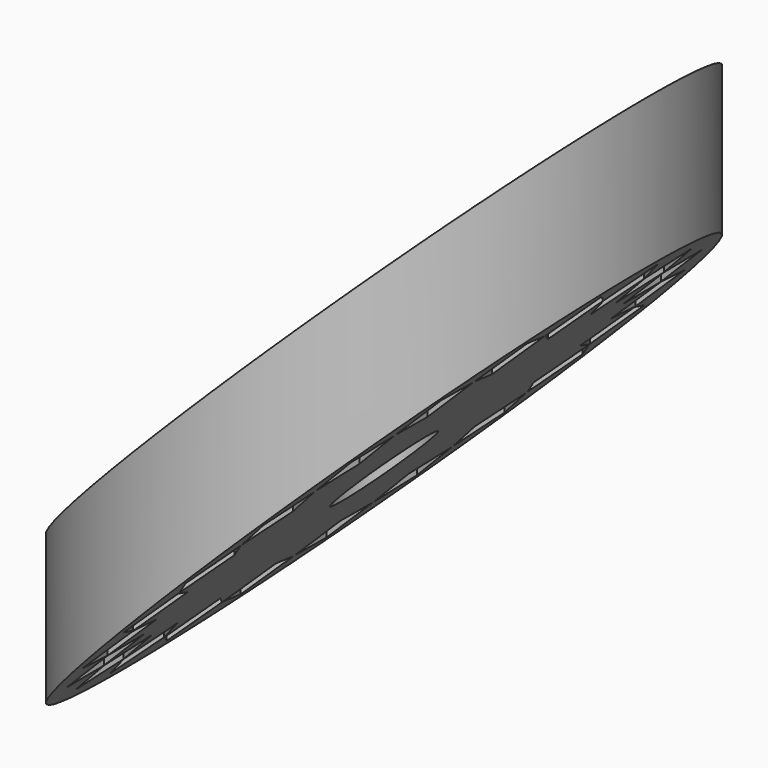
from build123d import *

# Parameters (mm, degrees)
F0_R          = 25
F1_DEPTH      = 140
F1_DEPTH_BACK = 140
F3_DEPTH      = 70
F3_DEPTH_BACK = 70
F4_R          = 4
F5_DEPTH      = 100


with BuildPart() as f1:
    # F0 (on Top) → F1 (new body, two sides)
    with BuildSketch(Plane.XY) as f1_sk:
        Circle(F0_R)
        Polygon((-17.759334, -15.390129), (-17.467051, -11.30056), (-13.377482, -11.592843), (-13.669765, -15.682412), align=None, mode=Mode.SUBTRACT)
        Polygon((-4.986074, -16.984997), (-3.020925, -20.583356), (-6.619284, -22.548505), (-8.584433, -18.950146), align=None, mode=Mode.SUBTRACT)
        Polygon((-12.70393, -19.770184), (-13.575676, -15.763931), (-9.569424, -14.892185), (-8.697678, -18.898437), align=None, mode=Mode.SUBTRACT)
        Polygon((-16.101728, -7.354277), (-17.534361, -11.195835), (-21.375918, -9.763202), (-19.943286, -5.921645), align=None, mode=Mode.SUBTRACT)
        Polygon((-17.52145, -2.519885), (-19.978364, -5.802198), (-23.260677, -3.345284), (-20.803763, -0.062972), align=None, mode=Mode.SUBTRACT)
        Polygon((2.900576, -20.60066), (0.001641, -23.5), (-2.8977, -20.601065), (0.001236, -17.701724), align=None, mode=Mode.SUBTRACT)
        Polygon((8.587079, -18.948947), (6.622432, -22.547581), (3.023799, -20.582934), (4.988446, -16.9843), align=None, mode=Mode.SUBTRACT)
        Polygon((12.70669, -19.76841), (8.700316, -18.897223), (9.571503, -14.890849), (13.577877, -15.762036), align=None, mode=Mode.SUBTRACT)
        Polygon((13.379101, -11.590975), (17.468628, -11.298121), (17.761482, -15.387649), (13.671955, -15.680503), align=None, mode=Mode.SUBTRACT)
        Polygon((21.377281, -9.760218), (17.535924, -11.193387), (16.102755, -7.352029), (19.944112, -5.91886), align=None, mode=Mode.SUBTRACT)
        Polygon((19.979174, -5.799408), (17.521802, -2.517439), (20.803772, -0.060067), (23.261143, -3.342037), align=None, mode=Mode.SUBTRACT)
        Polygon((-23.26091, 3.343661), (-19.978769, 5.800803), (-17.521626, 2.518662), (-20.803767, 0.061519), align=None, mode=Mode.SUBTRACT)
        Polygon((-19.943699, 5.920253), (-21.3766, 9.76171), (-17.535142, 11.194611), (-16.102242, 7.353153), align=None, mode=Mode.SUBTRACT)
        Polygon((-13.67086, 15.681458), (-13.378291, 11.59191), (-17.467839, 11.299341), (-17.760408, 15.388889), align=None, mode=Mode.SUBTRACT)
        Polygon((-9.570464, 14.891517), (-13.576777, 15.762984), (-12.70531, 19.769297), (-8.698997, 18.89783), align=None, mode=Mode.SUBTRACT)
        Polygon((-8.585756, 18.949547), (-6.620858, 22.548043), (-3.022362, 20.583145), (-4.98726, 16.984649), align=None, mode=Mode.SUBTRACT)
        Polygon((19.977959, 5.803593), (23.260443, 3.346908), (20.803759, 0.064424), (17.521274, 2.521108), align=None, mode=Mode.SUBTRACT)
        Polygon((21.375237, 9.764695), (19.942872, 5.923037), (16.101215, 7.355402), (17.533579, 11.197059), align=None, mode=Mode.SUBTRACT)
        Polygon((12.70255, 19.771071), (13.574576, 15.764879), (9.568384, 14.892853), (8.696358, 18.899044), align=None, mode=Mode.SUBTRACT)
        Polygon((-0.00164, 23.49836), (0, 23.5), (2.899138, 20.600862), (0, 17.701724), (-0.001236, 17.70296), (-2.899138, 20.600862), align=None, mode=Mode.SUBTRACT)
        Polygon((6.61771, 22.548967), (8.58311, 18.950745), (4.984888, 16.985345), (3.019488, 20.583567), align=None, mode=Mode.SUBTRACT)
        Polygon((13.376673, 11.593777), (13.66867, 15.683366), (17.758259, 15.391369), (17.466262, 11.30178), align=None, mode=Mode.SUBTRACT)
    extrude(amount=F1_DEPTH)
    extrude(f1_sk.sketch, amount=-F1_DEPTH_BACK)

    # F2 (on Front) → F3 (cut, two sides)
    with BuildSketch(Plane.XZ) as f3_sk:
        Polygon((98.642283, 152.918806), (-61.347591, -7.071068), (-72.7507, -18.474177), (-63.999477, -174.67025), (77.080854, -174.67025), align=None)
        Polygon((-70.218705, 159.989874), (-68.418659, 0), (91.571215, 159.989874), align=None)
    extrude(amount=F3_DEPTH, mode=Mode.SUBTRACT)
    extrude(f3_sk.sketch, amount=-F3_DEPTH_BACK, mode=Mode.SUBTRACT)

    # F4 (on Top) → F5 (cut)
    with BuildSketch(Plane.XY):
        Circle(F4_R)
    extrude(amount=F5_DEPTH, mode=Mode.SUBTRACT)


solid = f1.part
